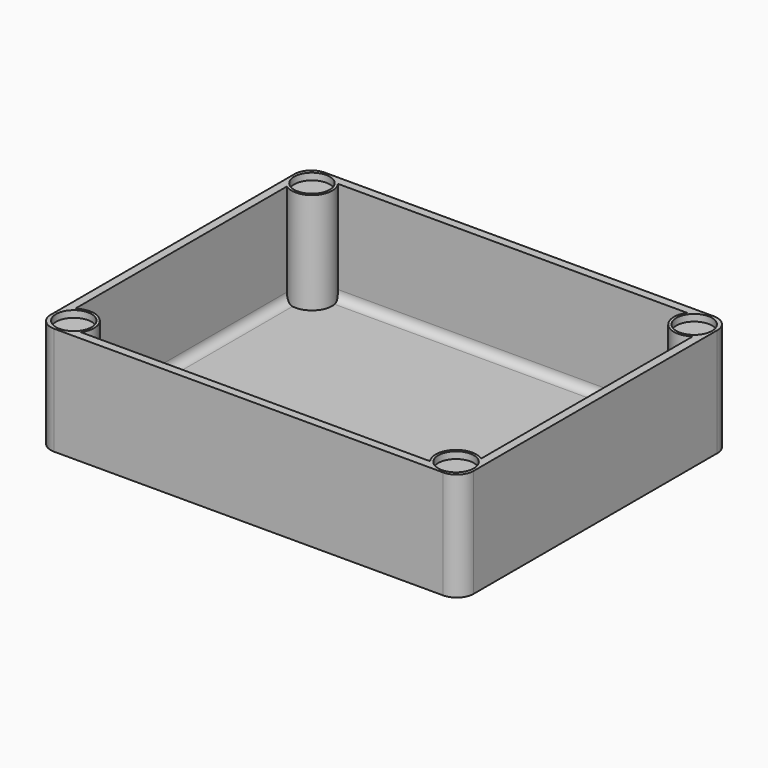
from build123d import *

# Parameters (mm, degrees)
SKETCH_W        = 125
SKETCH_H        = 100
PAD_DEPTH       = 32
SKETCH001_W     = 120
SKETCH001_H     = 95
POCKET_DEPTH    = 32
SKETCH002_R     = 6
PAD001_DEPTH    = 30
SKETCH003_R     = 5.25
POCKET001_DEPTH = 2
FILLET_R        = 2.5
FILLET001_R     = 2.5
FILLET002_R     = 2.5
FILLET003_R     = 2.5
FILLET004_R     = 5
FILLET005_R     = 5
FILLET006_R     = 5
FILLET007_R     = 5


with BuildPart() as part:
    # Sketch → Pad (new body)
    with BuildSketch(Plane.XY):
        with Locations((62.5, 50)):
            Rectangle(SKETCH_W, SKETCH_H)
    extrude(amount=PAD_DEPTH)

    # Sketch001 → Pocket (cut)
    with BuildSketch(Plane.XY.offset(34)):
        with Locations((62.5, 50)):
            Rectangle(SKETCH001_W, SKETCH001_H)
    extrude(amount=-POCKET_DEPTH, mode=Mode.SUBTRACT)

    # Sketch002 (on Face11 of Pocket) → Pad001 (join)
    with BuildSketch(Plane.XY.offset(2)):
        with Locations((6, 6)):
            Circle(SKETCH002_R)
        with Locations((6, 94)):
            Circle(SKETCH002_R)
        with Locations((119, 94)):
            Circle(SKETCH002_R)
        with Locations((119, 6)):
            Circle(SKETCH002_R)
    extrude(amount=PAD001_DEPTH)

    # Sketch003 (on Face27 of Pad001) → Pocket001 (cut)
    with BuildSketch(Plane.XY.offset(32)):
        with Locations((6, 6)):
            Circle(SKETCH003_R)
        with Locations((6, 94)):
            Circle(SKETCH003_R)
        with Locations((119, 94)):
            Circle(SKETCH003_R)
        with Locations((119, 6)):
            Circle(SKETCH003_R)
    extrude(amount=-POCKET001_DEPTH, mode=Mode.SUBTRACT)

    # Fillet
    fillet_edges = [part.edges().sort_by_distance(p)[0] for p in [
        (62.5, 2.5, 2),
    ]]
    fillet(fillet_edges, radius=FILLET_R)

    # Fillet001
    fillet001_edges = [part.edges().sort_by_distance(p)[0] for p in [
        (122.5, 50, 2),
    ]]
    fillet(fillet001_edges, radius=FILLET001_R)

    # Fillet002
    fillet002_edges = [part.edges().sort_by_distance(p)[0] for p in [
        (62.5, 97.5, 2),
    ]]
    fillet(fillet002_edges, radius=FILLET002_R)

    # Fillet003
    fillet003_edges = [part.edges().sort_by_distance(p)[0] for p in [
        (2.5, 50, 2),
    ]]
    fillet(fillet003_edges, radius=FILLET003_R)

    # Fillet004
    fillet004_edges = [part.edges().sort_by_distance(p)[0] for p in [
        (125, 100, 16),
    ]]
    fillet(fillet004_edges, radius=FILLET004_R)

    # Fillet005
    fillet005_edges = [part.edges().sort_by_distance(p)[0] for p in [
        (125, 0, 16),
    ]]
    fillet(fillet005_edges, radius=FILLET005_R)

    # Fillet006
    fillet006_edges = [part.edges().sort_by_distance(p)[0] for p in [
        (0, 0, 16),
    ]]
    fillet(fillet006_edges, radius=FILLET006_R)

    # Fillet007
    fillet007_edges = [part.edges().sort_by_distance(p)[0] for p in [
        (0, 100, 16),
    ]]
    fillet(fillet007_edges, radius=FILLET007_R)


solid = part.part
